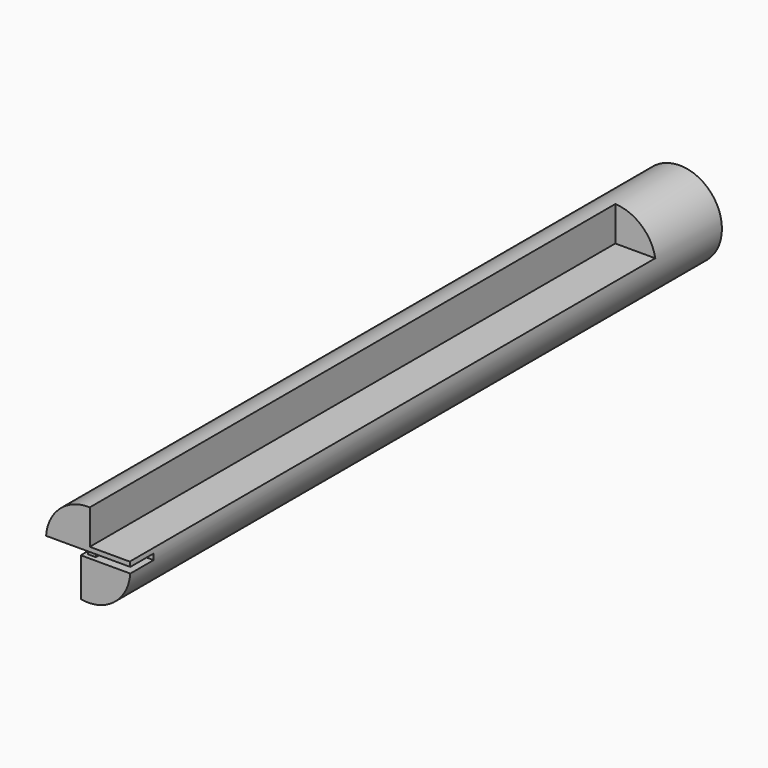
from build123d import *

# Parameters (mm, degrees)
F0_R     = 43.5
F1_DEPTH = 762
F2_W     = 99
F2_H     = 6
F3_DEPTH = 30
F4_W     = 7.932048
F4_H     = 6
F5_DEPTH = 25
F6_W     = 43.600235
F6_H     = 52.118463
F6_W_2   = 52.118463
F6_H_2   = 43.600235
F7_DEPTH = 677


with BuildPart() as f1:
    # F0 (on Front) → F1 (new body)
    with BuildSketch(Plane.XZ):
        Circle(F0_R)
    extrude(amount=F1_DEPTH)

    # F2 (on face) → F3 (cut)
    with BuildSketch(Plane.XZ.offset(762)):
        Rectangle(F2_W, F2_H)
    extrude(amount=-F3_DEPTH, mode=Mode.SUBTRACT)

    # F4 (on face) → F5 (join)
    with BuildSketch(Plane.XZ.offset(732)):
        Rectangle(F4_W, F4_H)
    extrude(amount=F5_DEPTH)

    # F6 (on face) → F7 (cut)
    with BuildSketch(Plane.XZ.offset(762)):
        with Locations((23.416517, 33.724575)):
            Rectangle(F6_W, F6_H)
        with Locations((-33.724575, -23.416517)):
            Rectangle(F6_W_2, F6_H_2)
    extrude(amount=-F7_DEPTH, mode=Mode.SUBTRACT)


solid = f1.part
